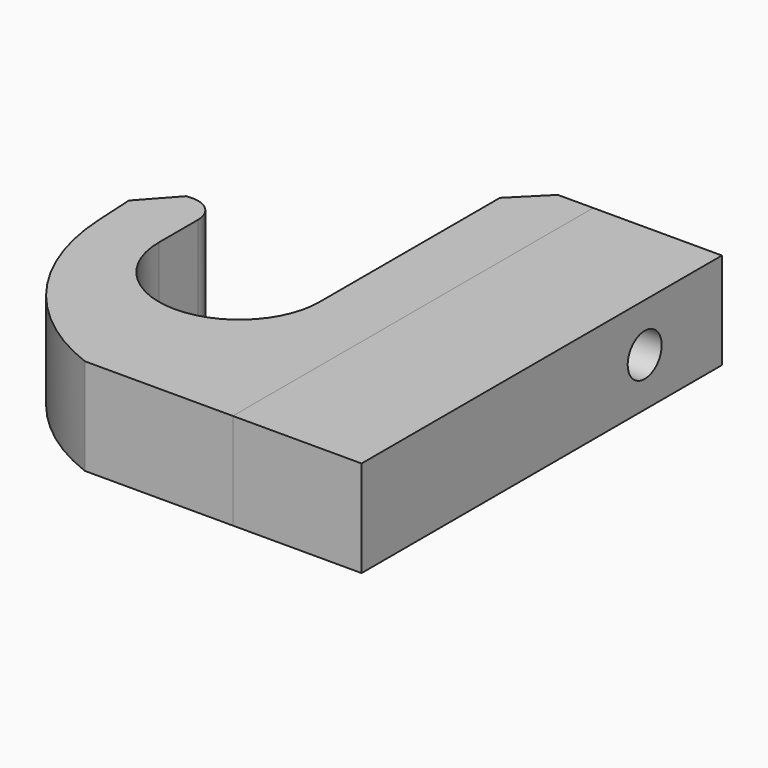
from build123d import *

# Parameters (mm, degrees)
F1_DEPTH       = 15
F3_D           = 6.6
F3_CSINK_D     = 13.44
F3_CSINK_ANGLE = 90
F4_SIZE        = 5
F5_SIZE        = 5
F6_R           = 4
F7_W           = 70
F7_H           = 15
F7_R           = 3.3
F8_DEPTH       = 20


with BuildPart() as f1:
    # F0 (on Top) → F1 (new body)
    with BuildSketch(Plane.XY):
        with BuildLine():
            Line((-23, 0), (0, 0))
            Line((0, 0), (0, 70))
            Line((0, 70), (-10.5, 70))
            Line((-10.5, 70), (-10.5, 30))
            ThreePointArc((-10.5, 30), (-23, 17.5), (-35.5, 30))
            Line((-35.5, 30), (-35.5, 41.8466433071))
            Line((-35.5, 41.8466433071), (-45.4856073802, 41.3103176141))
            Line((-45.4856073802, 41.3103176141), (-44.8781316702, 30))
            ThreePointArc((-44.8781316702, 30), (-38.3862259538, 11.7568148455), (-23, 0))
        make_face()
    extrude(amount=F1_DEPTH)

    # F3 (through all)
    with Locations(Plane(origin=(-10.5, 0, 0), x_dir=(0, -1, 0), z_dir=(-1, 0, 0))):
        with Locations((-55, 7.5)):
            CounterSinkHole(F3_D / 2, F3_CSINK_D / 2, counter_sink_angle=F3_CSINK_ANGLE)

    # F4
    f4_edges = [f1.edges().sort_by_distance(p)[0] for p in [
        (-10.5, 70, 7.5),
    ]]
    chamfer(f4_edges, length=F4_SIZE)

    # F5
    f5_edges = [f1.edges().sort_by_distance(p)[0] for p in [
        (-45.485607, 41.310318, 7.5),
    ]]
    chamfer(f5_edges, length=F5_SIZE)

    # F6
    f6_edges = [f1.edges().sort_by_distance(p)[0] for p in [
        (-35.5, 41.846643, 7.5),
    ]]
    fillet(f6_edges, radius=F6_R)


with BuildPart() as f8:
    # F7 (on face) → F8 (new body)
    with BuildSketch(Plane.YZ):
        with Locations((35, 7.5)):
            Rectangle(F7_W, F7_H)
        with Locations((55, 7.5)):
            Circle(F7_R, mode=Mode.SUBTRACT)
    extrude(amount=F8_DEPTH)


solid = Compound([f1.part, f8.part])
